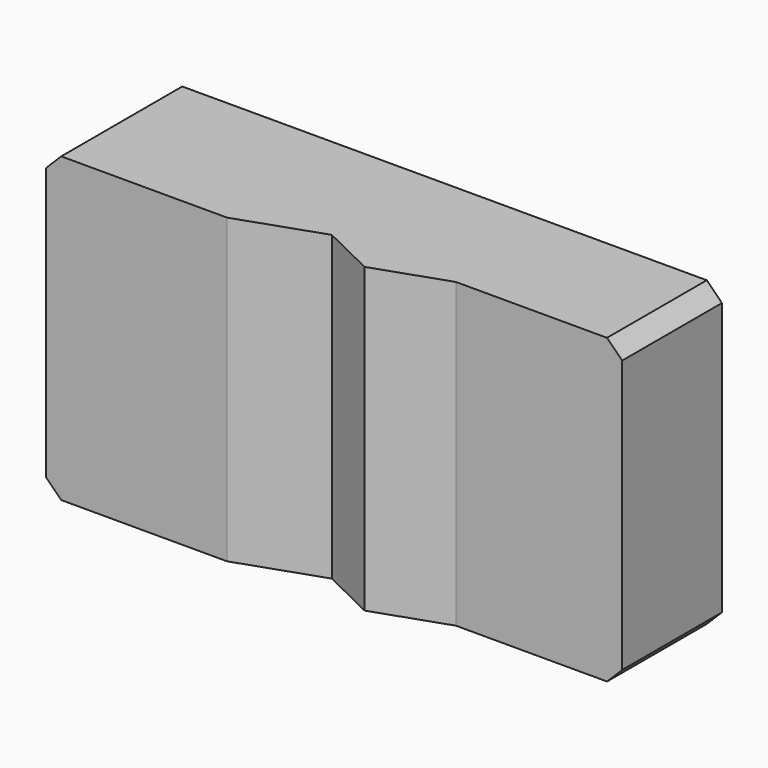
from build123d import *

# Parameters (mm, degrees)
F1_DEPTH = 59.9948
F2_SIZE  = 3


with BuildPart() as f1:
    # F0 (on Top) → F1 (new body)
    with BuildSketch(Plane.XY):
        Polygon((50.728187, 19.955454), (-59.271813, 19.955454), (-59.271813, -10.044546), (-23.39, -10.044546), (-7.10817, -4.438262), (3.569503, -9.646111), (17.746599, -4.764546), (50.728187, -4.764546), align=None)
        Polygon((50.728187, 19.955454), (-59.271813, 19.955454), (-59.271813, -10.044546), (-23.39, -10.044546), (-7.10817, -4.438262), (3.569503, -9.646111), (17.746599, -4.764546), (50.728187, -4.764546), align=None)
    extrude(amount=F1_DEPTH)

    # F2
    f2_edges = [f1.edges().sort_by_distance(p)[0] for p in [
        (-59.271813, 4.955454, 0),
        (50.728187, 7.595454, 0),
        (50.728187, 7.595454, 59.9948),
        (-59.271813, 4.955454, 59.9948),
    ]]
    chamfer(f2_edges, length=F2_SIZE)


solid = f1.part
